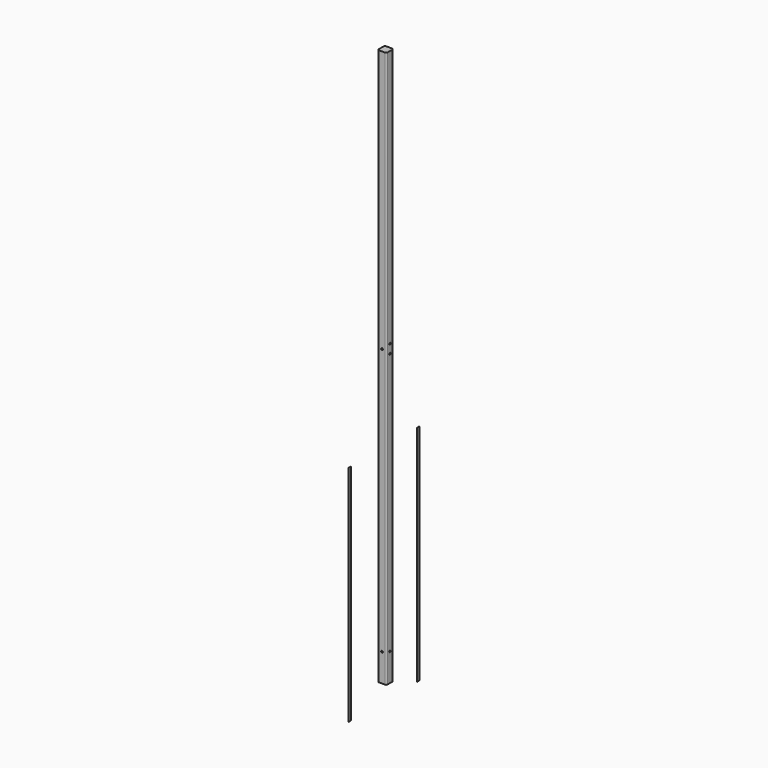
from build123d import *

# Parameters (mm, degrees)
F1_DEPTH  = 2400.3
F2_W      = 12.7
F2_H      = 965.2
F4_DEPTH  = 0.254
F3_W      = 12.7
F3_H      = 965.2
F5_DEPTH  = 0.254
F7_DEPTH  = 38.1
F9_DEPTH  = 38.1
F11_DEPTH = 38.1
F13_DEPTH = 38.1


with BuildPart() as f1:
    # F0 (on Top) → F1 (new body)
    with BuildSketch(Plane.XY):
        with BuildLine():
            ThreePointArc((19.05, 12.7), (17.190128, 17.190128), (12.7, 19.05))
            Line((12.7, 19.05), (-12.7, 19.05))
            ThreePointArc((-12.7, 19.05), (-17.190128, 17.190128), (-19.05, 12.7))
            Line((-19.05, 12.7), (-19.05, -12.7))
            ThreePointArc((-19.05, -12.7), (-17.190128, -17.190128), (-12.7, -19.05))
            Line((-12.7, -19.05), (12.7, -19.05))
            ThreePointArc((12.7, -19.05), (17.190128, -17.190128), (19.05, -12.7))
            Line((19.05, -12.7), (19.05, 12.7))
        make_face()
    extrude(amount=F1_DEPTH)

    # F6 (on face) → F7 (cut)
    with BuildSketch(Plane.XZ.offset(19.05)):
        with BuildLine():
            ThreePointArc((0, 116.84), (2.694077, 117.955923), (3.81, 120.65))
            ThreePointArc((3.81, 120.65), (-2.694077, 123.344077), (0, 116.84))
        make_face()
    extrude(amount=-F7_DEPTH, mode=Mode.SUBTRACT)

    # F8 (on face) → F9 (cut)
    with BuildSketch(Plane.YZ.offset(19.05)):
        with BuildLine():
            ThreePointArc((0, 116.84), (2.694077, 117.955923), (3.81, 120.65))
            ThreePointArc((3.81, 120.65), (-2.694077, 123.344077), (0, 116.84))
        make_face()
    extrude(amount=-F9_DEPTH, mode=Mode.SUBTRACT)

    # F10 (on face) → F11 (cut)
    with BuildSketch(Plane.YZ.offset(19.05)):
        with BuildLine():
            ThreePointArc((3.81, 1289.05), (2.694077, 1291.744077), (0, 1292.86))
            Line((0, 1292.86), (0, 1289.05))
            Line((0, 1289.05), (0, 1285.24))
            ThreePointArc((0, 1285.24), (2.694077, 1286.355923), (3.81, 1289.05))
        make_face()
        with BuildLine():
            ThreePointArc((3.81, 1250.95), (2.694077, 1253.644077), (0, 1254.76))
            ThreePointArc((0, 1254.76), (-2.694077, 1248.255923), (3.81, 1250.95))
        make_face()
        with BuildLine():
            Line((0, 1289.05), (0, 1292.86))
            ThreePointArc((0, 1292.86), (-3.81, 1289.05), (0, 1285.24))
            Line((0, 1285.24), (0, 1289.05))
        make_face()
    extrude(amount=-F11_DEPTH, mode=Mode.SUBTRACT)

    # F12 (on face) → F13 (cut)
    with BuildSketch(Plane.XZ.offset(19.05)):
        with BuildLine():
            ThreePointArc((0, 1273.81), (-2.694077, 1267.305923), (3.81, 1270))
            ThreePointArc((3.81, 1270), (2.694077, 1272.694077), (0, 1273.81))
        make_face()
    extrude(amount=-F13_DEPTH, mode=Mode.SUBTRACT)


with BuildPart() as f4:
    # F2 (on Right) → F4 (new body)
    with BuildSketch(Plane.YZ):
        with Locations((-192.550282, 409.951065)):
            Rectangle(F2_W, F2_H)
    extrude(amount=F4_DEPTH)


with BuildPart() as f5:
    # F3 (on Right) → F5 (new body)
    with BuildSketch(Plane.YZ):
        with Locations((175.864179, 412.127815)):
            Rectangle(F3_W, F3_H)
    extrude(amount=F5_DEPTH)


solid = Compound([f1.part, f4.part, f5.part])
